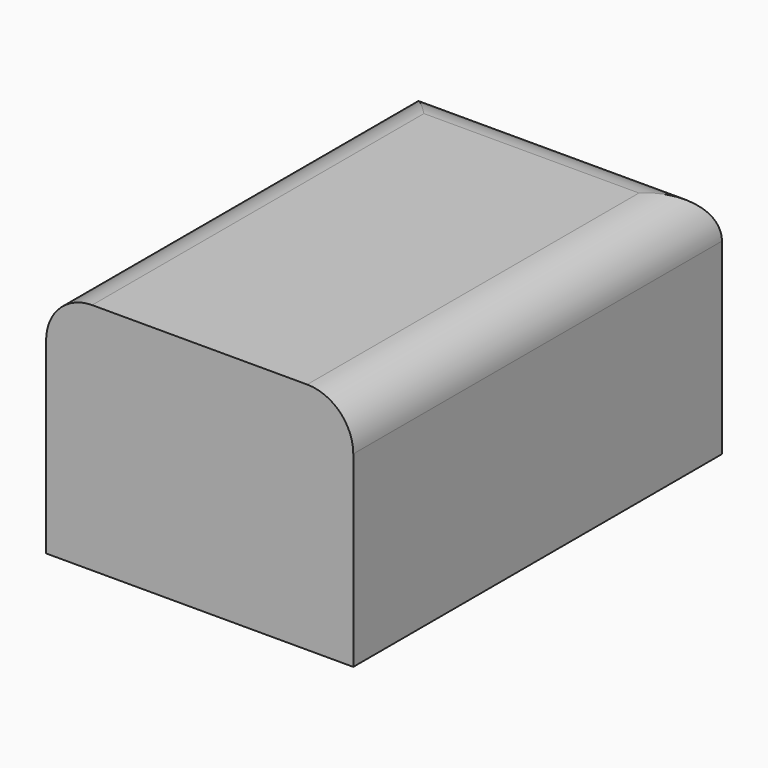
from build123d import *

# Parameters (mm, degrees)
F0_W     = 3048
F0_H     = 4572
F1_DEPTH = 1066.8
F2_DEPTH = 152.4
F3_DEPTH = 25.4
F4_DEPTH = 6.35
F5_R     = 457.2


with BuildPart() as f1:
    # F0 (on Top) → F1 (new body, symmetric)
    with BuildSketch(Plane.XY):
        Rectangle(F0_W, F0_H)
    extrude(amount=F1_DEPTH, both=True)

    # F2 (add, symmetric): a face of the model
    f2_faces = [f1.faces().sort_by_distance(p)[0] for p in [
        (0, 0, -1066.8),
    ]]
    extrude(f2_faces, amount=F2_DEPTH, both=True)

    # F3 (add, symmetric): a face of the model
    f3_faces = [f1.faces().sort_by_distance(p)[0] for p in [
        (0, 0, -1219.2),
    ]]
    extrude(f3_faces, amount=F3_DEPTH, both=True)

    # F4 (add, symmetric): a face of the model
    f4_faces = [f1.faces().sort_by_distance(p)[0] for p in [
        (0, 0, -1244.6),
    ]]
    extrude(f4_faces, amount=F4_DEPTH, both=True)

    # F5
    f5_edges = [f1.edges().sort_by_distance(p)[0] for p in [
        (-1524, 0, 1066.8),
        (1524, 0, 1066.8),
        (0, 2286, 1066.8),
    ]]
    fillet(f5_edges, radius=F5_R)


solid = f1.part
